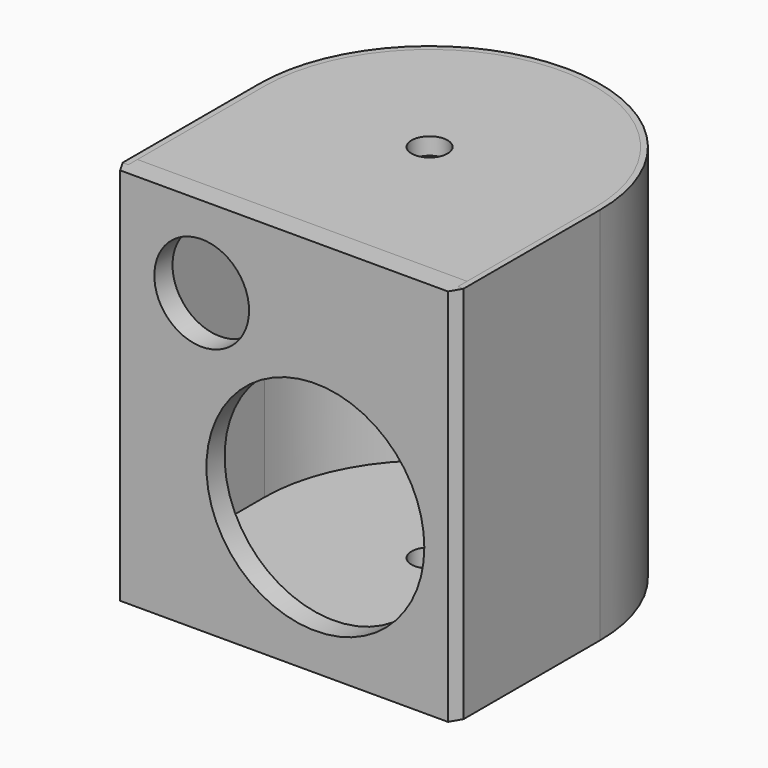
from build123d import *

# Parameters (mm, degrees)
F1_DEPTH  = 200
F2_T      = -3
F4_DEPTH  = 200
F5_R      = 57.5
F5_R_2    = 25
F6_DEPTH  = 96.001
F7_R      = 9.5
F8_DEPTH  = 9
F9_R      = 9.5
F10_DEPTH = 9


with BuildPart() as f1:
    # F0 (on Top) → F1 (new body)
    with BuildSketch(Plane.XY):
        with BuildLine():
            Line((90, -90), (90, 0))
            ThreePointArc((90, 0), (0, 90), (-90, 0))
            Line((-90, 0), (-90, -90))
            Line((-90, -90), (90, -90))
        make_face()
    extrude(amount=F1_DEPTH)

    # F2
    f2_openings = [f1.faces().sort_by_distance(p)[0] for p in [
        (0, -8.401487, 200),
        (0, -90, 100),
        (0, -8.401487, 0),
    ]]
    offset(amount=F2_T, openings=f2_openings)


with BuildPart() as f4:
    # F3 (on Top) → F4 (new body, through all)
    with BuildSketch(Plane.XY):
        Polygon((87, -84), (-87, -84), (-87, -90), (-90, -90), (-86.535898, -96), (86.535898, -96), (90, -90), (87, -90), align=None)
    extrude(amount=F4_DEPTH)

    # F5 (on Front) → F6 (cut, through all)
    with BuildSketch(Plane.XZ):
        with Locations((16.535898, 77)):
            Circle(F5_R)
        with Locations((-43.464102, 157)):
            Circle(F5_R_2)
    extrude(amount=F6_DEPTH, mode=Mode.SUBTRACT)


with BuildPart() as f8:
    # F7 (on face) → F8 (new body)
    with BuildSketch(Plane.XY.offset(200)):
        with BuildLine():
            ThreePointArc((87, 0), (0, 87), (-87, 0))
            Line((-87, 0), (-87, -84))
            Line((-87, -84), (87, -84))
            Line((87, -84), (87, 0))
        make_face()
        Circle(F7_R, mode=Mode.SUBTRACT)
    extrude(amount=-F8_DEPTH)


with BuildPart() as f10:
    # F9 (on Top) → F10 (new body)
    with BuildSketch(Plane.XY):
        with BuildLine():
            Line((-87, -84), (87, -84))
            Line((87, -84), (87, 0))
            ThreePointArc((87, 0), (0, 87), (-87, 0))
            Line((-87, 0), (-87, -84))
        make_face()
        Circle(F9_R, mode=Mode.SUBTRACT)
    extrude(amount=F10_DEPTH)


solid = Compound([f1.part, f4.part, f8.part, f10.part])
